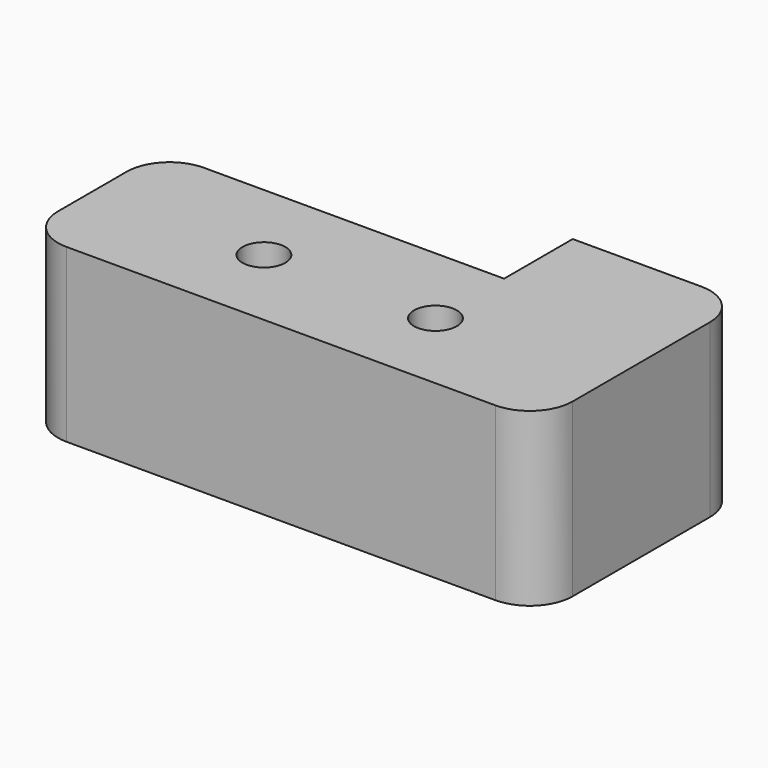
from build123d import *

# Parameters (mm, degrees)
F1_DEPTH = 50.8
F3_D     = 12.7


with BuildPart() as f1:
    # F0 (on Top) → F1 (new body)
    with BuildSketch(Plane.XY):
        with BuildLine():
            ThreePointArc((0, 12.7), (3.719744, 3.719744), (12.7, 0))
            Line((12.7, 0), (139.7, 0))
            ThreePointArc((139.7, 0), (148.680256, 3.719744), (152.4, 12.7))
            Line((152.4, 12.7), (152.4, 63.5))
            ThreePointArc((152.4, 63.5), (148.680256, 72.480256), (139.7, 76.2))
            Line((139.7, 76.2), (101.6, 76.2))
            Line((101.6, 76.2), (101.6, 50.8))
            Line((101.6, 50.8), (12.7, 50.8))
            ThreePointArc((12.7, 50.8), (3.719744, 47.080256), (0, 38.1))
            Line((0, 38.1), (0, 12.7))
        make_face()
    extrude(amount=F1_DEPTH)

    # F3 (through all)
    with Locations(Plane.XY.offset(50.8)):
        with Locations((50.8, 25.4), (101.6, 25.4)):
            Hole(F3_D / 2)


solid = f1.part
